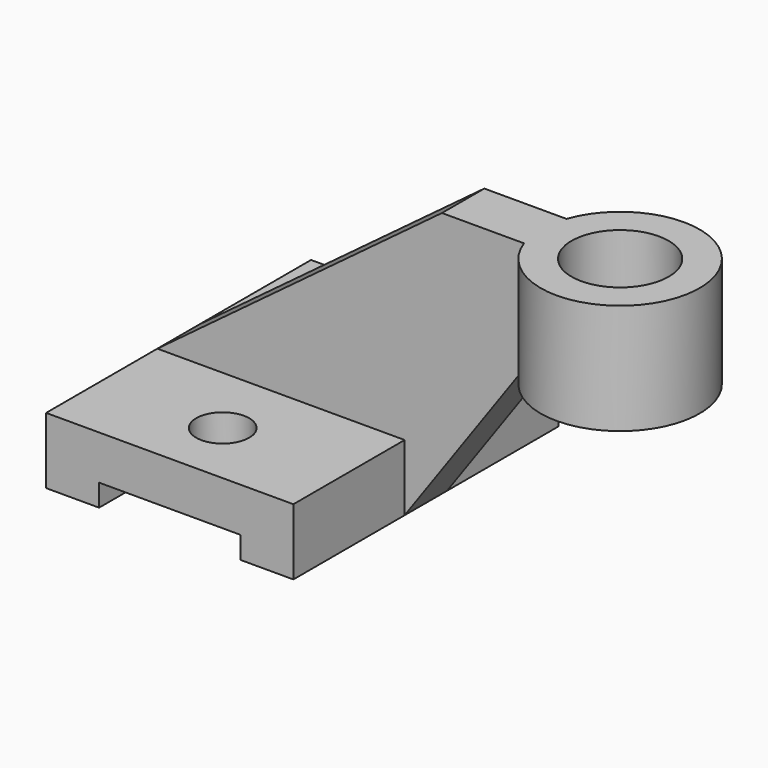
from build123d import *

# Parameters (mm, degrees)
F0_W      = 56
F0_H      = 15
F1_DEPTH  = 37.5
F3_W      = 12
F3_H      = 63
F4_DEPTH  = 100
F6_DEPTH  = 43.501
F7_R      = 18
F8_DEPTH  = 25
F10_DEPTH = 43.501
F11_R     = 11
F12_DEPTH = 63.001
F2_W      = 32
F2_H      = 5
F13_DEPTH = 75.001
F14_R     = 6
F15_DEPTH = 15.001


with BuildPart() as f1:
    # F0 (on Front) → F1 (new body, symmetric)
    with BuildSketch(Plane.XZ):
        Rectangle(F0_W, F0_H)
    extrude(amount=F1_DEPTH, both=True)

    # F3 (on face) → F4 (join)
    with BuildSketch(Plane(origin=(-28, 0, 0), x_dir=(0, -1, 0), z_dir=(-1, 0, 0))):
        with Locations((0, 24)):
            Rectangle(F3_W, F3_H)
    extrude(amount=-F4_DEPTH)

    # F5 (on face) → F6 (cut, through all)
    with BuildSketch(Plane.XZ.offset(6)):
        Polygon((-28, 55.5), (-28, 7.5), (36.446944, 55.5), align=None)
    extrude(amount=-F6_DEPTH, mode=Mode.SUBTRACT)

    # F7 (on face) → F8 (join)
    with BuildSketch(Plane.XY.offset(55.5)):
        with Locations((72, 0)):
            Circle(F7_R)
    extrude(amount=-F8_DEPTH)

    # F9 (on face) → F10 (cut, through all)
    with BuildSketch(Plane.XZ.offset(6)):
        Polygon((55.029437, 30.5), (28, -7.5), (72, -7.5), (72, 30.5), align=None)
    extrude(amount=-F10_DEPTH, mode=Mode.SUBTRACT)

    # F11 (on face) → F12 (cut, through all)
    with BuildSketch(Plane.XY.offset(55.5)):
        with Locations((72, 0)):
            Circle(F11_R)
    extrude(amount=-F12_DEPTH, mode=Mode.SUBTRACT)

    # F2 (on face) → F13 (cut, through all)
    with BuildSketch(Plane.XZ.offset(37.5)):
        with Locations((0, -5)):
            Rectangle(F2_W, F2_H)
    extrude(amount=-F13_DEPTH, mode=Mode.SUBTRACT)

    # F14 (on face) → F15 (cut, through all)
    with BuildSketch(Plane.XY.offset(7.5)):
        with Locations((0, 22.5)):
            Circle(F14_R)
        with Locations((0, -22.5)):
            Circle(F14_R)
    extrude(amount=-F15_DEPTH, mode=Mode.SUBTRACT)


solid = f1.part
